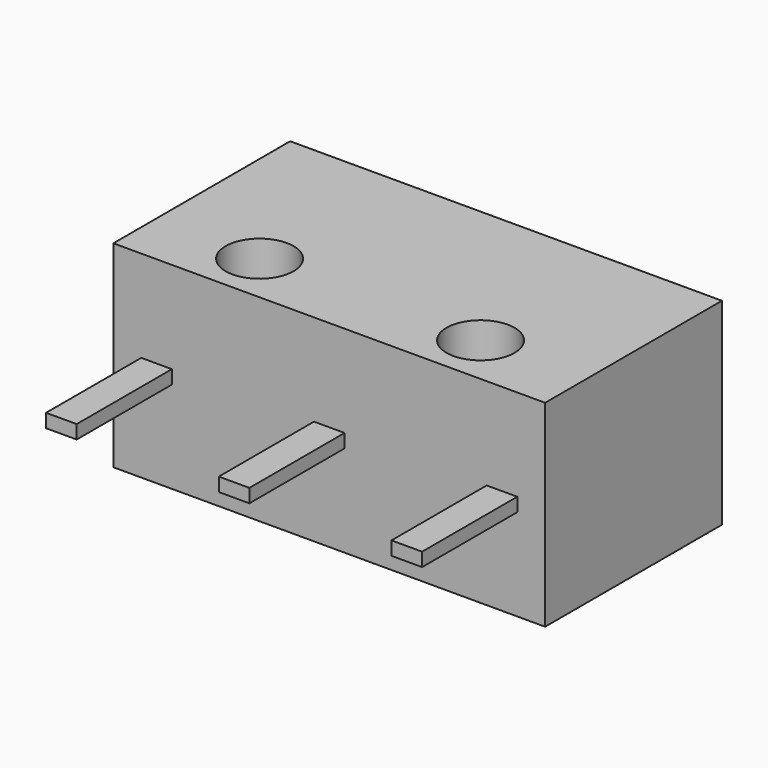
from build123d import *

# Parameters (mm, degrees)
F0_W     = 12.7
F0_H     = 6.5
F0_R     = 1
F1_DEPTH = 5.8
F4_W     = 0.9
F4_H     = 3.5
F5_DEPTH = 0.4
F2_W     = 1.2
F2_H     = 2.9
F6_DEPTH = 0.5
F7_R     = 0.4


with BuildPart() as f1:
    # F0 (on Top) → F1 (new body)
    with BuildSketch(Plane.XY):
        Rectangle(F0_W, F0_H)
        with Locations((-3.25, -1.75)):
            Circle(F0_R, mode=Mode.SUBTRACT)
        with Locations((3.25, -1.75)):
            Circle(F0_R, mode=Mode.SUBTRACT)
    extrude(amount=F1_DEPTH)

    # F4 (on offset) → F5 (join)
    with BuildSketch(Plane.XY.offset(2.7)):
        with Locations((-5.08, -5)):
            Rectangle(F4_W, F4_H)
        with Locations((0, -5)):
            Rectangle(F4_W, F4_H)
        with Locations((5.08, -5)):
            Rectangle(F4_W, F4_H)
    extrude(amount=F5_DEPTH)

    # F2 (on face) → F6 (join)
    with BuildSketch(Plane(origin=(0, 3.25, 0), x_dir=(-1, 0, 0), z_dir=(0, 1, 0))):
        with Locations((1.85, 2.95)):
            Rectangle(F2_W, F2_H)
    extrude(amount=F6_DEPTH)

    # F7
    f7_edges = [f1.edges().sort_by_distance(p)[0] for p in [
        (-2.45, 3.75, 2.95),
        (-1.25, 3.75, 2.95),
    ]]
    fillet(f7_edges, radius=F7_R)


solid = f1.part
